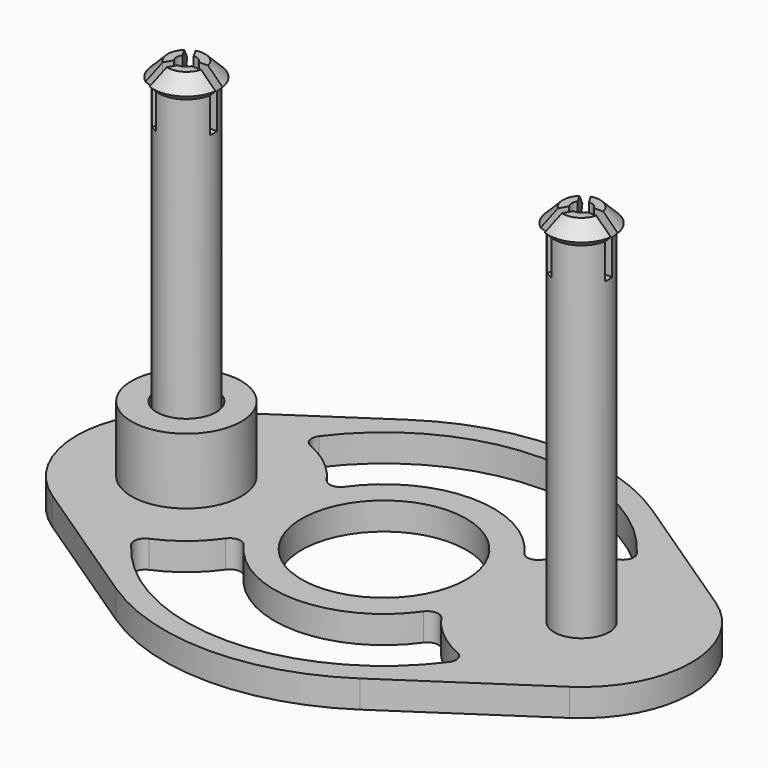
from build123d import *

# Parameters (mm, degrees)
F2_R      = 9.525
F3_DEPTH  = 3.175
F6_R      = 6.35
F6_R_2    = 3.429
F7_DEPTH  = 7.62
F9_DEPTH  = 6.35
F10_R     = 1.27
F11_DEPTH = 39.116
F12_R     = 1.27


with BuildPart() as f1:
    # F0 (on Front) → F1 (revolve)
    with BuildSketch(Plane.XZ):
        Polygon((1.143, 42.291), (1.143, 0), (3.175, 0), (3.175, 40.005), (3.81, 40.64), (2.159, 42.291), align=None)
    revolve(axis=Axis((0, 0, 33.0930802794), (0, 0, 1)))

    # F2 (on Top) → F3 (join)
    with BuildSketch(Plane.XY):
        with BuildLine():
            Line((8.7488888889, 21.1195772498), (-7.0555555556, 10.5597886249))
            ThreePointArc((-7.0555555556, 10.5597886249), (-12.7, 0), (-7.0555555556, -10.5597886249))
            Line((-7.0555555556, -10.5597886249), (8.7488888889, -21.1195772498))
            ThreePointArc((8.7488888889, -21.1195772498), (22.86, -25.4), (36.9711111111, -21.1195772498))
            Line((36.9711111111, -21.1195772498), (52.7755555556, -10.5597886249))
            ThreePointArc((52.7755555556, -10.5597886249), (58.42, 0), (52.7755555556, 10.5597886249))
            Line((52.7755555556, 10.5597886249), (36.9711111111, 21.1195772498))
            ThreePointArc((36.9711111111, 21.1195772498), (22.86, 25.4), (8.7488888889, 21.1195772498))
        make_face()
        with BuildLine():
            ThreePointArc((42.1922222222, -12.200196062), (22.86, -22.86), (3.5277777778, -12.200196062))
            ThreePointArc((3.5277777778, -12.200196062), (8.1876319656, -9.7083820895), (11.43, -5.5358016583))
            ThreePointArc((11.43, -5.5358016583), (22.86, -12.7), (34.29, -5.5358016583))
            ThreePointArc((34.29, -5.5358016583), (37.5323680344, -9.7083820895), (42.1922222222, -12.200196062))
        make_face(mode=Mode.SUBTRACT)
        with Locations((22.86, 0)):
            Circle(F2_R, mode=Mode.SUBTRACT)
        with BuildLine():
            ThreePointArc((42.1922222222, 12.200196062), (37.5323680344, 9.7083820895), (34.29, 5.5358016583))
            ThreePointArc((34.29, 5.5358016583), (22.86, 12.7), (11.43, 5.5358016583))
            ThreePointArc((11.43, 5.5358016583), (8.1876319656, 9.7083820895), (3.5277777778, 12.200196062))
            ThreePointArc((3.5277777778, 12.200196062), (22.86, 22.86), (42.1922222222, 12.200196062))
        make_face(mode=Mode.SUBTRACT)
    extrude(amount=-F3_DEPTH)

    # F4 (on Front) → F5 (revolve)
    with BuildSketch(Plane.XZ):
        Polygon((46.863, 42.291), (46.863, 0), (48.895, 0), (48.895, 40.005), (49.53, 40.64), (47.879, 42.291), align=None)
    revolve(axis=Axis((45.72, 0, 33.0930802794), (0, 0, 1)))

    # F8 (on face) → F9 (cut)
    with BuildSketch(Plane.XY.offset(42.291)):
        with BuildLine():
            ThreePointArc((1.143, 0), (1.1128284677, -0.2608865683), (1.023906734, -0.508))
            Line((1.023906734, -0.508), (2.0983843785, -0.508))
            ThreePointArc((2.0983843785, -0.508), (2.1437925358, -0.2558018049), (2.159, 0))
            ThreePointArc((2.159, 0), (2.1437925358, 0.2558018049), (2.0983843785, 0.508))
            Line((2.0983843785, 0.508), (1.023906734, 0.508))
            ThreePointArc((1.023906734, 0.508), (1.1128284677, 0.2608865683), (1.143, 0))
        make_face()
        with BuildLine():
            ThreePointArc((2.159, 0), (2.1437925358, -0.2558018049), (2.0983843785, -0.508))
            Line((2.0983843785, -0.508), (6.35, -0.508))
            Line((6.35, -0.508), (6.35, 0.508))
            Line((6.35, 0.508), (2.0983843785, 0.508))
            ThreePointArc((2.0983843785, 0.508), (2.1437925358, 0.2558018049), (2.159, 0))
        make_face()
        with BuildLine():
            Line((-1.4891330944, 1.5632541787), (-0.9518942721, 0.6327292428))
            ThreePointArc((-0.9518942721, 0.6327292428), (-0.5715, 0.9898670365), (-0.0720124619, 1.1407292428))
            Line((-0.0720124619, 1.1407292428), (-0.6092512841, 2.0712541787))
            ThreePointArc((-0.6092512841, 2.0712541787), (-1.0795, 1.8697488468), (-1.4891330944, 1.5632541787))
        make_face()
        with BuildLine():
            Line((-0.6092512841, -2.0712541787), (-0.0720124619, -1.1407292428))
            ThreePointArc((-0.0720124619, -1.1407292428), (-0.5715, -0.9898670365), (-0.9518942721, -0.6327292428))
            Line((-0.9518942721, -0.6327292428), (-1.4891330944, -1.5632541787))
            ThreePointArc((-1.4891330944, -1.5632541787), (-1.0795, -1.8697488468), (-0.6092512841, -2.0712541787))
        make_face()
        with BuildLine():
            Line((-2.7350590949, -5.753261314), (-0.6092512841, -2.0712541787))
            ThreePointArc((-0.6092512841, -2.0712541787), (-1.0795, -1.8697488468), (-1.4891330944, -1.5632541787))
            Line((-1.4891330944, -1.5632541787), (-3.6149409051, -5.245261314))
            Line((-3.6149409051, -5.245261314), (-2.7350590949, -5.753261314))
        make_face()
        with BuildLine():
            Line((-3.6149409051, 5.245261314), (-1.4891330944, 1.5632541787))
            ThreePointArc((-1.4891330944, 1.5632541787), (-1.0795, 1.8697488468), (-0.6092512841, 2.0712541787))
            Line((-0.6092512841, 2.0712541787), (-2.7350590949, 5.753261314))
            Line((-2.7350590949, 5.753261314), (-3.6149409051, 5.245261314))
        make_face()
        Polygon((42.9849409051, -5.753261314), (46.0132939367, -0.508), (52.07, -0.508), (52.07, 0.508), (46.0132939367, 0.508), (42.9849409051, 5.753261314), (42.1050590949, 5.245261314), (45.1334121265, 0), (42.1050590949, -5.245261314), align=None)
    extrude(amount=-F9_DEPTH, mode=Mode.SUBTRACT)

    # F10 (on face) → F11 (join, through all)
    with BuildSketch(Plane.XY.offset(35.941)):
        with BuildLine():
            ThreePointArc((-0.1420462081, -1.2620312495), (0.8463159326, -0.9469156996), (1.27, 0))
            ThreePointArc((1.27, 0), (-0.3968950848, 1.2063889471), (-1.0219280184, -0.7540312495))
            Line((-1.0219280184, -0.7540312495), (-0.9518942721, -0.6327292428))
            ThreePointArc((-0.9518942721, -0.6327292428), (-0.5715, -0.9898670365), (-0.0720124619, -1.1407292428))
            Line((-0.0720124619, -1.1407292428), (-0.1420462081, -1.2620312495))
        make_face()
        with Locations((45.72, 0)):
            Circle(F10_R)
    extrude(amount=-F11_DEPTH)

    # F12
    f12_edges = [f1.edges().sort_by_distance(p)[0] for p in [
        (3.527778, -12.200196, -1.5875),
        (11.43, -5.535802, -1.5875),
        (34.29, -5.535802, -1.5875),
        (42.192222, -12.200196, -1.5875),
        (42.192222, 12.200196, -1.5875),
        (34.29, 5.535802, -1.5875),
        (11.43, 5.535802, -1.5875),
        (3.527778, 12.200196, -1.5875),
    ]]
    fillet(f12_edges, radius=F12_R)


with BuildPart() as f7:
    # F6 (on face) → F7 (new body)
    with BuildSketch(Plane.XY):
        Circle(F6_R)
        Circle(F6_R_2, mode=Mode.SUBTRACT)
    extrude(amount=F7_DEPTH)


solid = Compound([f1.part, f7.part])
